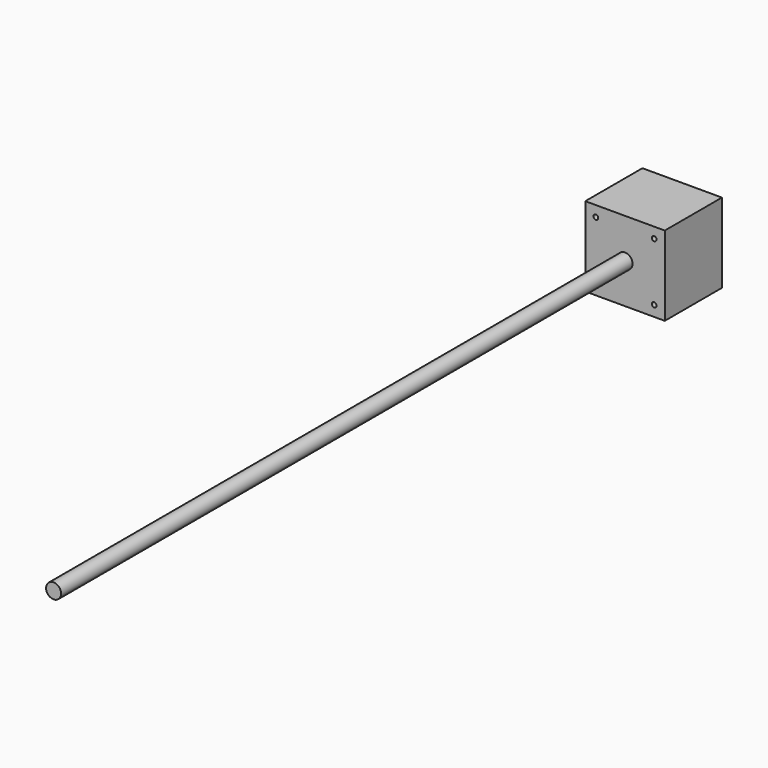
from build123d import *

# Parameters (mm, degrees)
F0_W     = 42.3
F0_H     = 42.3
F0_R     = 1.25
F1_DEPTH = 19
F2_R     = 4
F3_DEPTH = 380


with BuildPart() as f1:
    # F0 (on Front) → F1 (new body, symmetric)
    with BuildSketch(Plane.XZ):
        Rectangle(F0_W, F0_H)
        with Locations((-15.5, -15.5)):
            Circle(F0_R, mode=Mode.SUBTRACT)
        with Locations((15.5, -15.5)):
            Circle(F0_R, mode=Mode.SUBTRACT)
        with Locations((-15.5, 15.5)):
            Circle(F0_R, mode=Mode.SUBTRACT)
        with Locations((15.5, 15.5)):
            Circle(F0_R, mode=Mode.SUBTRACT)
    extrude(amount=F1_DEPTH, both=True)

    # F2 (on face) → F3 (join)
    with BuildSketch(Plane.XZ.offset(19)):
        Circle(F2_R)
    extrude(amount=F3_DEPTH)


solid = f1.part
